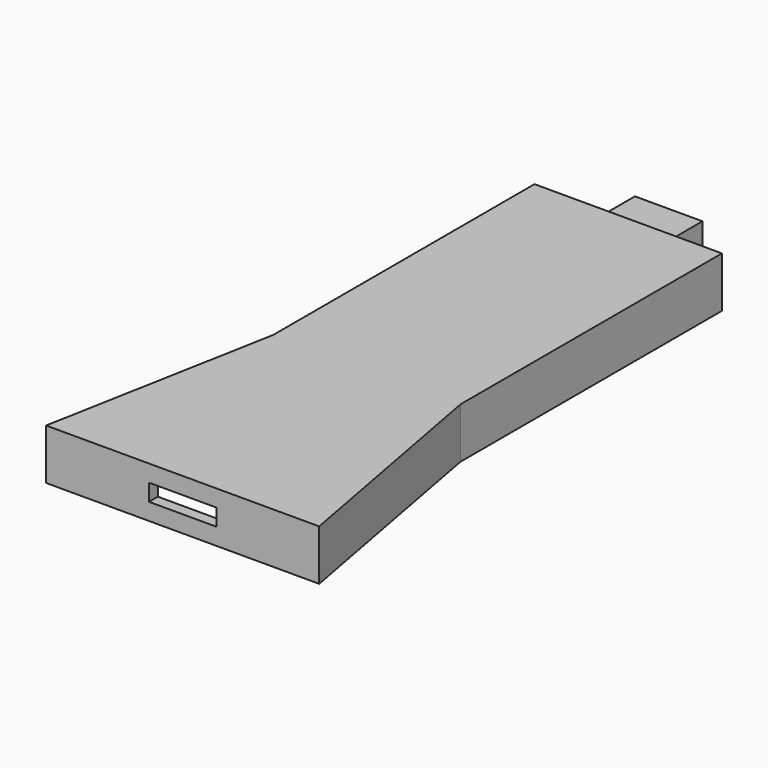
from build123d import *

# Parameters (mm, degrees)
F0_W     = 55.5625
F0_H     = 68.2625
F0_H_2   = 96.8375
F1_DEPTH = 15
F3_DEPTH = 10
F4_W     = 20
F4_H     = 5
F5_DEPTH = 25
F6_W     = 20
F6_H     = 8
F7_DEPTH = 15


with BuildPart() as f1:
    # F0 (on Top) → F1 (new body)
    with BuildSketch(Plane.XY):
        with Locations((0, -48.41875)):
            Rectangle(F0_W, F0_H)
        Polygon((27.78125, -14.2875), (27.78125, -82.55), (40.48125, -82.55), align=None)
        Polygon((-40.48125, -82.55), (-27.78125, -82.55), (-27.78125, -14.2875), align=None)
        with Locations((0, 34.13125)):
            Rectangle(F0_W, F0_H_2)
    extrude(amount=F1_DEPTH)

    # F2 (on face) → F3 (cut)
    with BuildSketch(Plane(origin=(0, 0, 0), x_dir=(1, 0, 0), z_dir=(0, 0, -1))):
        Polygon((34.4403, 79.25), (-35.392648, 79.25), (-24.48125, 14.2875), (-24.48125, -79.25), (24.482846, -79.25), (24.482846, 14.390121), align=None)
    extrude(amount=-F3_DEPTH, mode=Mode.SUBTRACT)

    # F4 (on face) → F5 (cut)
    with BuildSketch(Plane.XZ.offset(82.55)):
        with Locations((0, 7.5)):
            Rectangle(F4_W, F4_H)
    extrude(amount=-F5_DEPTH, mode=Mode.SUBTRACT)

    # F6 (on face) → F7 (join)
    with BuildSketch(Plane(origin=(0, 82.55, 0), x_dir=(-1, 0, 0), z_dir=(0, 1, 0))):
        with Locations((0, 7.5)):
            Rectangle(F6_W, F6_H)
    extrude(amount=F7_DEPTH)


solid = f1.part
